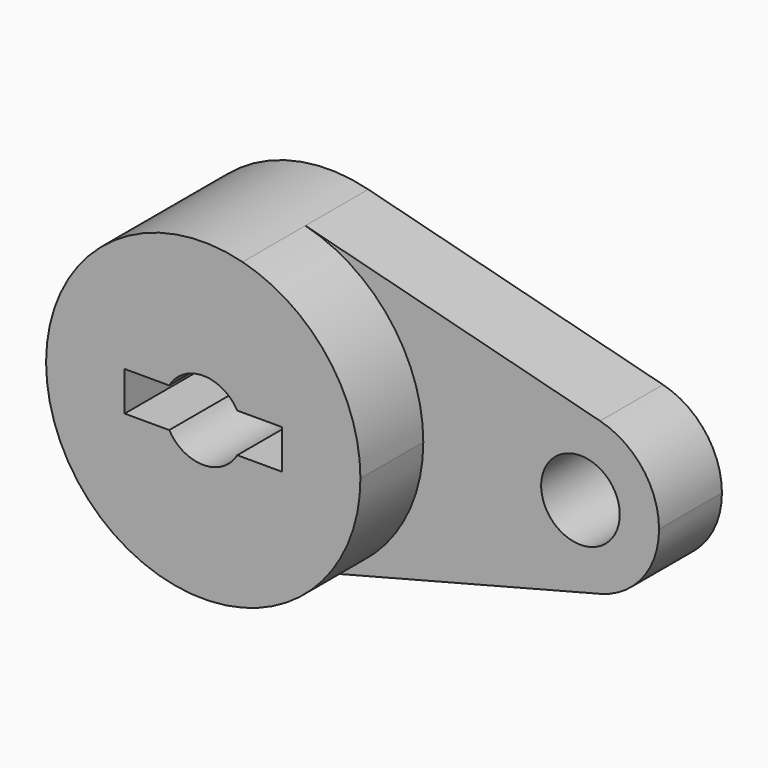
from build123d import *

# Parameters (mm, degrees)
F1_DEPTH = 25.4
F0_R     = 6.35
F2_DEPTH = 12.7


with BuildPart() as f1:
    # F0 (on Front) → F1 (new body)
    with BuildSketch(Plane.XZ):
        with BuildLine():
            ThreePointArc((6.35, -24.593444), (20.080463, -15.55426), (25.4, 0))
            ThreePointArc((25.4, 0), (20.080463, 15.55426), (6.35, 24.593444))
            ThreePointArc((6.35, 24.593444), (-25.4, 0), (6.35, -24.593444))
        make_face()
        with BuildLine():
            ThreePointArc((-5.499261, 3.175), (0, 6.35), (5.499261, 3.175))
            Line((5.499261, 3.175), (12.7, 3.175))
            Line((12.7, 3.175), (12.7, -3.175))
            Line((12.7, -3.175), (5.499261, -3.175))
            ThreePointArc((5.499261, -3.175), (0, -6.35), (-5.499261, -3.175))
            Line((-5.499261, -3.175), (-12.7, -3.175))
            Line((-12.7, -3.175), (-12.7, 3.175))
            Line((-12.7, 3.175), (-5.499261, 3.175))
        make_face(mode=Mode.SUBTRACT)
    extrude(amount=F1_DEPTH)


with BuildPart() as f2:
    # F0 (on Front) → F2 (new body)
    with BuildSketch(Plane.XZ):
        with BuildLine():
            ThreePointArc((6.35, 24.593444), (20.080463, 15.55426), (25.4, 0))
            ThreePointArc((25.4, 0), (20.080463, -15.55426), (6.35, -24.593444))
            Line((6.35, -24.593444), (53.975, -12.296722))
            ThreePointArc((53.975, -12.296722), (38.1, 0), (53.975, 12.296722))
            Line((53.975, 12.296722), (6.35, 24.593444))
        make_face()
        with BuildLine():
            ThreePointArc((63.5, 0), (60.840232, 7.77713), (53.975, 12.296722))
            ThreePointArc((53.975, 12.296722), (38.1, 0), (53.975, -12.296722))
            ThreePointArc((53.975, -12.296722), (60.840232, -7.77713), (63.5, 0))
        make_face()
        with Locations((50.8, 0)):
            Circle(F0_R, mode=Mode.SUBTRACT)
    extrude(amount=F2_DEPTH)


solid = Compound([f1.part, f2.part])
